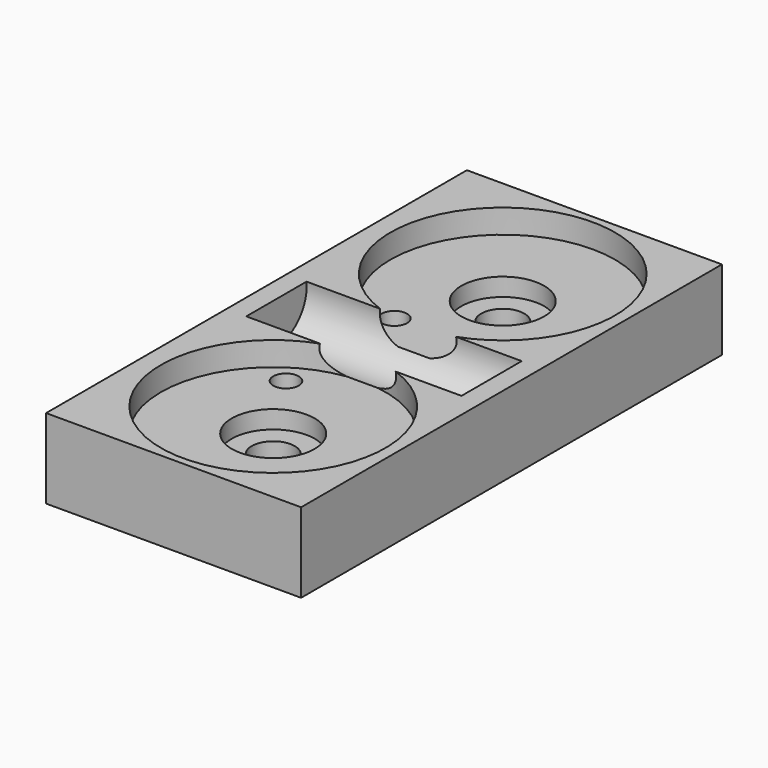
from build123d import *

# Parameters (mm, degrees)
CYLINDER1331_R                     = 1.6
CYLINDER1331_DEPTH                 = 60
CYLINDER1332_R                     = 1.6
CYLINDER1332_DEPTH                 = 60
CYLINDER1333_R                     = 1.6
CYLINDER1333_DEPTH                 = 60
CYLINDER1330_R                     = 1.6
CYLINDER1330_DEPTH                 = 60
FUSION248002050200_PLACEMENT_ANGLE = 90
CYLINDER1329_R                     = 2.7
CYLINDER1329_DEPTH                 = 15
CYLINDER1328_R                     = 2.7
CYLINDER1328_DEPTH                 = 15
CYLINDER1327_R                     = 4.75
CYLINDER1327_DEPTH                 = 27
CYLINDER1326_R                     = 5.2
CYLINDER1326_DEPTH                 = 9.5
CYLINDER1323_R                     = 14.1
CYLINDER1323_DEPTH                 = 5
CYLINDER1324_R                     = 14.1
CYLINDER1324_DEPTH                 = 5
CYLINDER1325_R                     = 5.2
CYLINDER1325_DEPTH                 = 9.5
FUSION248002050201_PLACEMENT_ANGLE = 90
BOX545_W                           = 32
BOX545_H                           = 66
BOX545_DEPTH                       = 10


with BuildPart() as cylinder1331:
    # Cylinder1331 → Cylinder1331 (new body)
    with BuildSketch(Plane(origin=(432, 67, 100), x_dir=(0, 0, -1), z_dir=(1, 0, 0))):
        Circle(CYLINDER1331_R)
    extrude(amount=CYLINDER1331_DEPTH)


with BuildPart() as cylinder1332:
    # Cylinder1332 → Cylinder1332 (new body)
    with BuildSketch(Plane(origin=(432, 93.5, 94), x_dir=(0, 0, -1), z_dir=(1, 0, 0))):
        Circle(CYLINDER1332_R)
    extrude(amount=CYLINDER1332_DEPTH)


with BuildPart() as cylinder1333:
    # Cylinder1333 → Cylinder1333 (new body)
    with BuildSketch(Plane(origin=(432, 76.5, 94), x_dir=(0, 0, -1), z_dir=(1, 0, 0))):
        Circle(CYLINDER1333_R)
    extrude(amount=CYLINDER1333_DEPTH)


with BuildPart() as fusion248002050200:
    # Cylinder1330 → Cylinder1330 (new body)
    with BuildSketch(Plane(origin=(432, 103, 100), x_dir=(0, 0, -1), z_dir=(1, 0, 0))):
        Circle(CYLINDER1330_R)
    extrude(amount=CYLINDER1330_DEPTH)

    # Fusion248002050200: union Cylinder1331, Cylinder1332, Cylinder1333
    add(cylinder1331.part)
    add(cylinder1332.part)
    add(cylinder1333.part)


with BuildPart() as fusion248002050200_1:
    # Fusion248002050200 placement: moved
    add(fusion248002050200.part.moved(Location((-82, -50, 452))).rotate(Axis((-82, -50, 452), (0, 1, 0)), FUSION248002050200_PLACEMENT_ANGLE))


with BuildPart() as cylinder1329:
    # Cylinder1329 → Cylinder1329 (new body)
    with BuildSketch(Plane(origin=(428.75, 103, 100), x_dir=(0, 0, -1), z_dir=(1, 0, 0))):
        Circle(CYLINDER1329_R)
    extrude(amount=CYLINDER1329_DEPTH)


with BuildPart() as cylinder1328:
    # Cylinder1328 → Cylinder1328 (new body)
    with BuildSketch(Plane(origin=(428.75, 67, 100), x_dir=(0, 0, -1), z_dir=(1, 0, 0))):
        Circle(CYLINDER1328_R)
    extrude(amount=CYLINDER1328_DEPTH)


with BuildPart() as cylinder1327:
    # Cylinder1327 → Cylinder1327 (new body)
    with BuildSketch(Plane(origin=(441.5, 85, 87), x_dir=(1, 0, 0), z_dir=(0, 0, 1))):
        Circle(CYLINDER1327_R)
    extrude(amount=CYLINDER1327_DEPTH)


with BuildPart() as cylinder1326:
    # Cylinder1326 → Cylinder1326 (new body)
    with BuildSketch(Plane(origin=(434.75, 102.5, 100), x_dir=(0, 0, -1), z_dir=(1, 0, 0))):
        Circle(CYLINDER1326_R)
    extrude(amount=CYLINDER1326_DEPTH)


with BuildPart() as fusion248002050199:
    # Cylinder1323 → Cylinder1323 (new body)
    with BuildSketch(Plane(origin=(437, 102.5, 100), x_dir=(0, 0, -1), z_dir=(1, 0, 0))):
        Circle(CYLINDER1323_R)
    extrude(amount=CYLINDER1323_DEPTH)

    # Fusion248002050199: union Cylinder1326
    add(cylinder1326.part)


with BuildPart() as fusion248002050199_1:
    # Fusion248002050199 placement: moved
    add(fusion248002050199.part.moved(Location((2, 0.5, 0))))


with BuildPart() as cylinder1324:
    # Cylinder1324 → Cylinder1324 (new body)
    with BuildSketch(Plane(origin=(437, 67.5, 100), x_dir=(0, 0, -1), z_dir=(1, 0, 0))):
        Circle(CYLINDER1324_R)
    extrude(amount=CYLINDER1324_DEPTH)


with BuildPart() as fusion248002050201:
    # Cylinder1325 → Cylinder1325 (new body)
    with BuildSketch(Plane(origin=(434.75, 67.5, 100), x_dir=(0, 0, -1), z_dir=(1, 0, 0))):
        Circle(CYLINDER1325_R)
    extrude(amount=CYLINDER1325_DEPTH)

    # Fusion248002050198: union Cylinder1324
    add(cylinder1324.part)


with BuildPart() as fusion248002050201_1:
    # Fusion248002050198 placement: moved
    add(fusion248002050201.part.moved(Location((2, -0.5, 0))))

    # Fusion248002050201: union Cylinder1329, Cylinder1328, Cylinder1327, Fusion248002050199
    add(cylinder1329.part)
    add(cylinder1328.part)
    add(cylinder1327.part)
    add(fusion248002050199_1.part)


with BuildPart() as fusion248002050201_2:
    # Fusion248002050201 placement: moved
    add(fusion248002050201_1.part.moved(Location((118, -50, -432))).rotate(Axis((118, -50, -432), (0, -1, 0)), FUSION248002050201_PLACEMENT_ANGLE))


with BuildPart() as bucket_gears_holes:
    # Box545 → Box545 (new body)
    with BuildSketch(Plane(origin=(1.5, 2, 0), x_dir=(1, 0, 0), z_dir=(0, 0, 1))):
        with Locations((16, 33)):
            Rectangle(BOX545_W, BOX545_H)
    extrude(amount=BOX545_DEPTH)

    # Cut: cut Fusion248002050201
    add(fusion248002050201_2.part, mode=Mode.SUBTRACT)

    # Cut014344: cut Fusion248002050200
    add(fusion248002050200_1.part, mode=Mode.SUBTRACT)


solid = bucket_gears_holes.part
